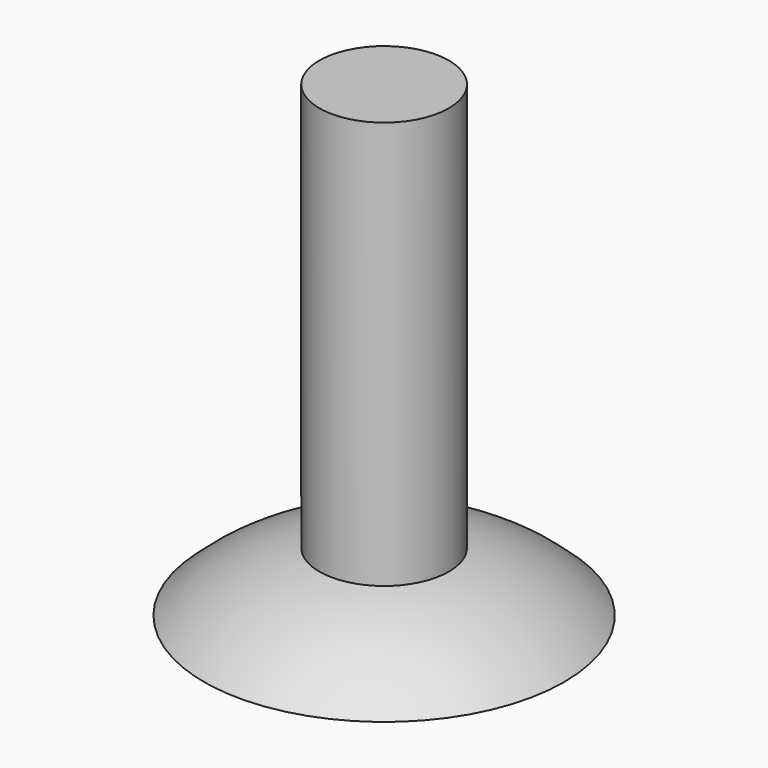
from build123d import *

# Parameters (mm, degrees)
F2_R     = 3.6
F3_DEPTH = 26


with BuildPart() as f1:
    # F0 (on Front) → F1 (revolve)
    with BuildSketch(Plane.XZ):
        with BuildLine():
            Line((0, 3.5), (0, 0))
            Line((0, 0), (10.01788, 0))
            ThreePointArc((10.01788, 0), (5.386773, 2.831452), (0, 3.5))
        make_face()
    revolve(axis=Axis((0, 0, 4.663223), (0, 0, 1)))

    # F2 (on Top) → F3 (join)
    with BuildSketch(Plane.XY):
        Circle(F2_R)
    extrude(amount=F3_DEPTH)


solid = f1.part
